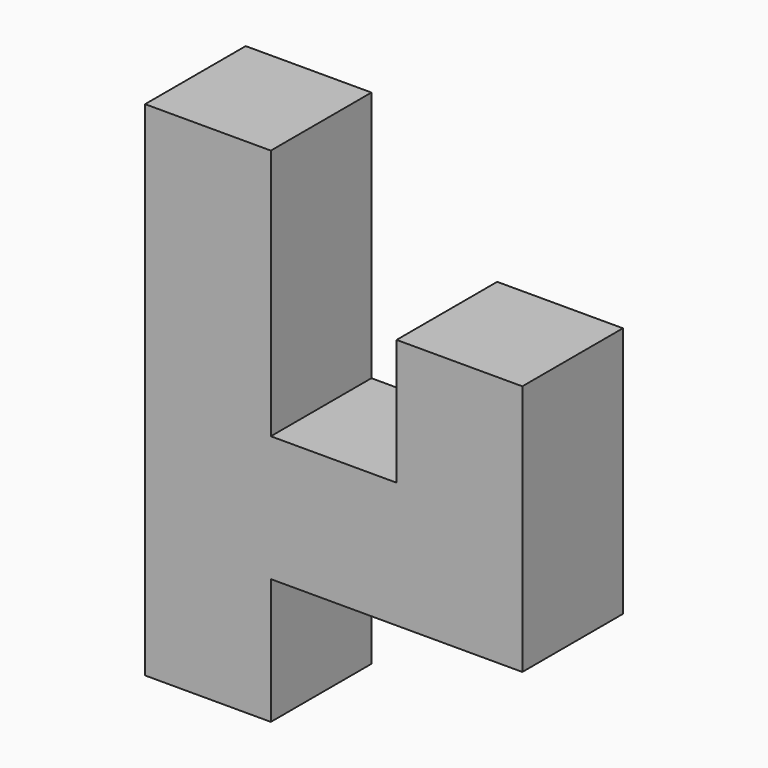
from build123d import *

# Parameters (mm, degrees)
F0_W     = 12.7
F0_H     = 12.7
F1_DEPTH = 6.35


with BuildPart() as f1:
    # F0 (on Front) → F1 (new body, symmetric)
    with BuildSketch(Plane.XZ):
        with Locations((-49.254278, 46.948222)):
            Rectangle(F0_W, F0_H)
        with Locations((-49.254278, 34.248222)):
            Rectangle(F0_W, F0_H)
        with Locations((-49.254278, 21.548222)):
            Rectangle(F0_W, F0_H)
        with Locations((-36.554278, 21.548222)):
            Rectangle(F0_W, F0_H)
        with Locations((-49.254278, 8.848222)):
            Rectangle(F0_W, F0_H)
        with Locations((-23.854278, 21.548222)):
            Rectangle(F0_W, F0_H)
        with Locations((-23.854278, 34.248222)):
            Rectangle(F0_W, F0_H)
    extrude(amount=F1_DEPTH, both=True)


solid = f1.part
